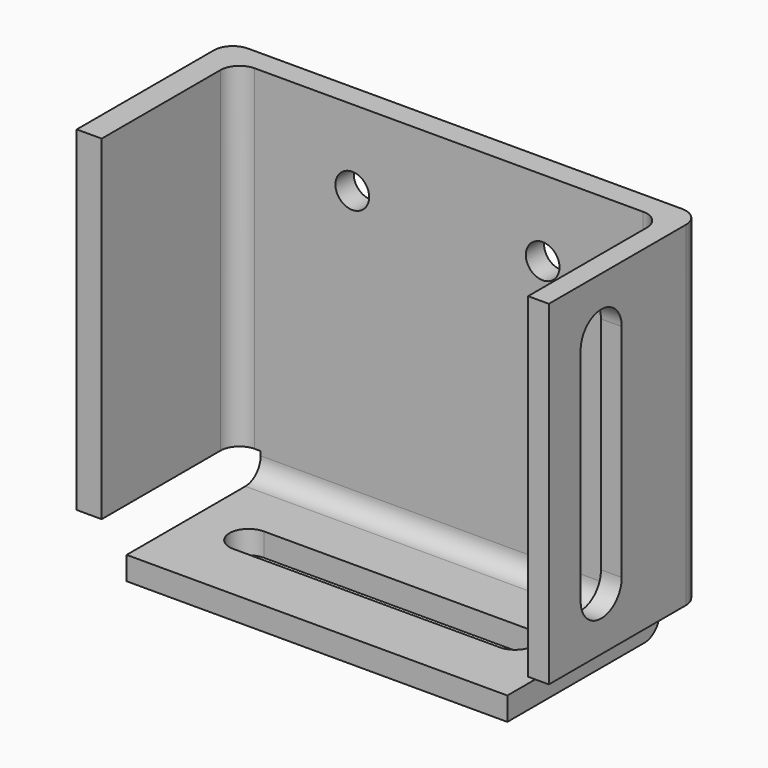
from build123d import *

# Parameters (mm, degrees)
F0_R     = 2.2479
F1_DEPTH = 3.048
F0_W     = 50.8
F0_H     = 3.1029520094
F0_W_2   = 3.3275114092
F0_H_2   = 44.704
F0_W_3   = 2.7684885908
F2_DEPTH = 25.4
F4_R     = 2.54
F6_DEPTH = 25.4
F7_DEPTH = 25.4


with BuildPart() as f1:
    # F0 (on Front) → F1 (new body)
    with BuildSketch(Plane.XZ):
        Polygon((30.5415683826, 28.2853763875), (-26.3544316174, 28.2853763875), (-26.3544316174, -16.4186236125), (-23.0269202082, -16.4186236125), (-23.0269202082, -19.5215756219), (27.7730797918, -19.5215756219), (27.7730797918, -16.4186236125), (30.5415683826, -16.4186236125), align=None)
        with Locations((-10.7998287971, 18.1253763875)):
            Circle(F0_R, mode=Mode.SUBTRACT)
        with Locations((14.6001712029, 18.1253763875)):
            Circle(F0_R, mode=Mode.SUBTRACT)
    extrude(amount=F1_DEPTH)

    # F0 (on Front) → F2 (join)
    with BuildSketch(Plane.XZ):
        with Locations((2.3730797918, -21.0730516266)):
            Rectangle(F0_W, F0_H)
        with Locations((-28.018187322, 5.9333763875)):
            Rectangle(F0_W_2, F0_H_2)
        with Locations((31.925812678, 5.9333763875)):
            Rectangle(F0_W_3, F0_H_2)
    extrude(amount=F2_DEPTH)

    # F4
    f4_edges = [f1.edges().sort_by_distance(p)[0] for p in [
        (2.37308, -3.048, -19.521576),
        (2.37308, 0, -22.624528),
        (33.310057, 0, 5.933376),
        (30.541568, -3.048, 5.933376),
        (-26.354432, -3.048, 5.933376),
        (-29.681943, 0, 5.933376),
    ]]
    fillet(f4_edges, radius=F4_R)

    # F5 (on face) → F6 (cut)
    with BuildSketch(Plane(origin=(30.5415683826, 0, 0), x_dir=(0, -1, 0), z_dir=(-1, 0, 0))):
        with BuildLine():
            ThreePointArc((20.1026303179, 20.6653763875), (16.6749283671, 24.0930783383), (13.2472264163, 20.6653763875))
            Line((13.2472264163, 20.6653763875), (13.2472264163, -8.7986236125))
            ThreePointArc((13.2472264163, -8.7986236125), (16.6749283671, -12.2263255633), (20.1026303179, -8.7986236125))
            Line((20.1026303179, -8.7986236125), (20.1026303179, 20.6653763875))
        make_face()
    extrude(amount=-F6_DEPTH, mode=Mode.SUBTRACT)

    # F3 (on face) → F7 (cut)
    with BuildSketch(Plane.XY.offset(-19.5215756219)):
        with BuildLine():
            ThreePointArc((-15.1830099327, -12.3297252466), (-17.7230099327, -14.8697252466), (-15.1830099327, -17.4097252466))
            Line((-15.1830099327, -17.4097252466), (20.3769900673, -17.4097252466))
            ThreePointArc((20.3769900673, -17.4097252466), (22.9169900673, -14.8697252466), (20.3769900673, -12.3297252466))
            Line((20.3769900673, -12.3297252466), (-15.1830099327, -12.3297252466))
        make_face()
    extrude(amount=-F7_DEPTH, mode=Mode.SUBTRACT)


solid = f1.part
